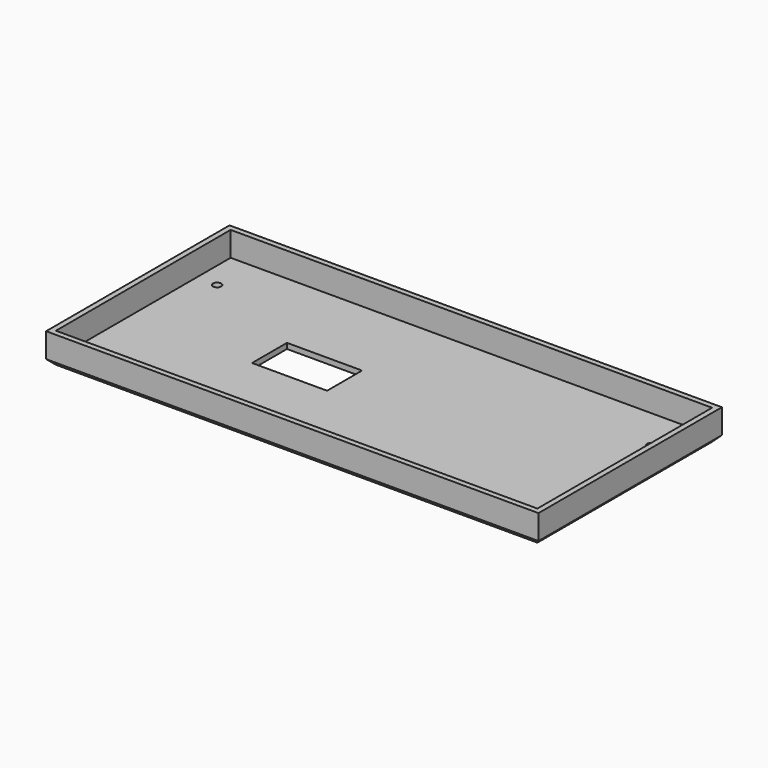
from build123d import *

# Parameters (mm, degrees)
F0_W     = 180.379
F0_H     = 84
F0_W_2   = 176.379
F0_H_2   = 80
F1_DEPTH = 11
F0_W_3   = 164
F0_H_3   = 61
F0_W_4   = 27.5
F0_H_4   = 16
F2_DEPTH = 2
F3_SIZE  = 2


with BuildPart() as f1:
    # F0 (on Top) → F1 (new body)
    with BuildSketch(Plane.XY):
        with Locations((-90.1895, 42)):
            Rectangle(F0_W, F0_H)
        with Locations((-90.1895, 42)):
            Rectangle(F0_W_2, F0_H_2, mode=Mode.SUBTRACT)
    extrude(amount=F1_DEPTH)

    # F0 (on Top) → F2 (join)
    with BuildSketch(Plane.XY):
        with Locations((-90.1895, 42)):
            Rectangle(F0_W_2, F0_H_2)
        with Locations((-91.379, 38.431)):
            Rectangle(F0_W_3, F0_H_3, mode=Mode.SUBTRACT)
        with Locations((-91.379, 38.431)):
            Rectangle(F0_W_3, F0_H_3)
        with BuildLine():
            ThreePointArc((-170.879, 64.931), (-171.9396601718, 67.4916601718), (-169.379, 66.431))
            Line((-169.379, 66.431), (-13.379, 66.431))
            ThreePointArc((-13.379, 66.431), (-11.879, 67.931), (-10.379, 66.431))
            ThreePointArc((-10.379, 66.431), (-10.8183398282, 65.3703398282), (-11.879, 64.931))
            Line((-11.879, 64.931), (-11.879, 11.931))
            ThreePointArc((-11.879, 11.931), (-10.8183398282, 11.4916601718), (-10.379, 10.431))
            ThreePointArc((-10.379, 10.431), (-11.879, 8.931), (-13.379, 10.431))
            Line((-13.379, 10.431), (-169.379, 10.431))
            ThreePointArc((-169.379, 10.431), (-171.9396601718, 9.3703398282), (-170.879, 11.931))
            Line((-170.879, 11.931), (-170.879, 64.931))
        make_face(mode=Mode.SUBTRACT)
        with BuildLine():
            Line((-13.379, 66.431), (-169.379, 66.431))
            ThreePointArc((-169.379, 66.431), (-169.8183398282, 65.3703398282), (-170.879, 64.931))
            Line((-170.879, 64.931), (-170.879, 11.931))
            ThreePointArc((-170.879, 11.931), (-169.8183398282, 11.4916601718), (-169.379, 10.431))
            Line((-169.379, 10.431), (-13.379, 10.431))
            ThreePointArc((-13.379, 10.431), (-12.9396601718, 11.4916601718), (-11.879, 11.931))
            Line((-11.879, 11.931), (-11.879, 64.931))
            ThreePointArc((-11.879, 64.931), (-12.9396601718, 65.3703398282), (-13.379, 66.431))
        make_face()
        with Locations((-119.129, 42.931)):
            Rectangle(F0_W_4, F0_H_4, mode=Mode.SUBTRACT)
    extrude(amount=F2_DEPTH)

    # F3
    f3_edges = [f1.edges().sort_by_distance(p)[0] for p in [
        (0, 42, 0),
        (-90.1895, 84, 0),
        (-90.1895, 0, 0),
        (-180.379, 42, 0),
    ]]
    chamfer(f3_edges, length=F3_SIZE)


solid = f1.part
